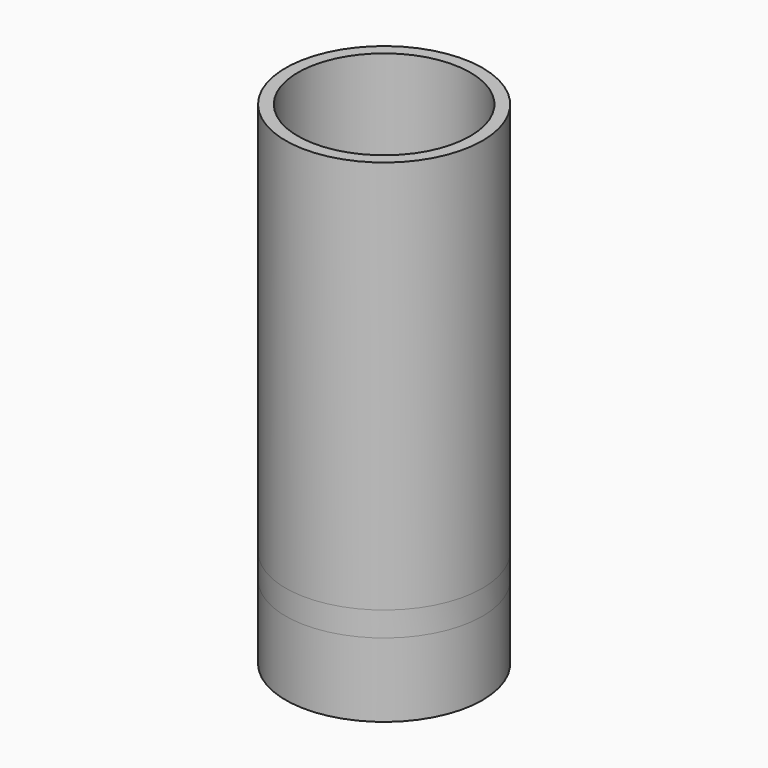
from build123d import *

# Parameters (mm, degrees)
F0_R      = 25.4
F1_DEPTH  = 19.05
F2_R      = 25.4
F2_R_2    = 22.225
F3_DEPTH  = 127
F4_R      = 16.51
F4_R_2    = 15.24
F1_FACE_R = 25.4
F5_DEPTH  = 6.35


with BuildPart() as f1:
    # F0 (on Top) → F1 (new body)
    with BuildSketch(Plane.XY):
        Circle(F0_R)
    extrude(amount=F1_DEPTH)


with BuildPart() as f3:
    # F2 (on Top) → F3 (new body)
    with BuildSketch(Plane.XY):
        Circle(F2_R)
        Circle(F2_R_2, mode=Mode.SUBTRACT)
    extrude(amount=F3_DEPTH)


with BuildPart() as f5:
    # F4 (on Top) + F1_face (on face) → F5 (new body)
    with BuildSketch(Plane.XY):
        Circle(F4_R)
        Circle(F4_R_2, mode=Mode.SUBTRACT)
    with BuildSketch(Plane.XY.offset(19.05)):
        Circle(F1_FACE_R)
    extrude(amount=F5_DEPTH)


solid = Compound([f1.part, f3.part, f5.part])
